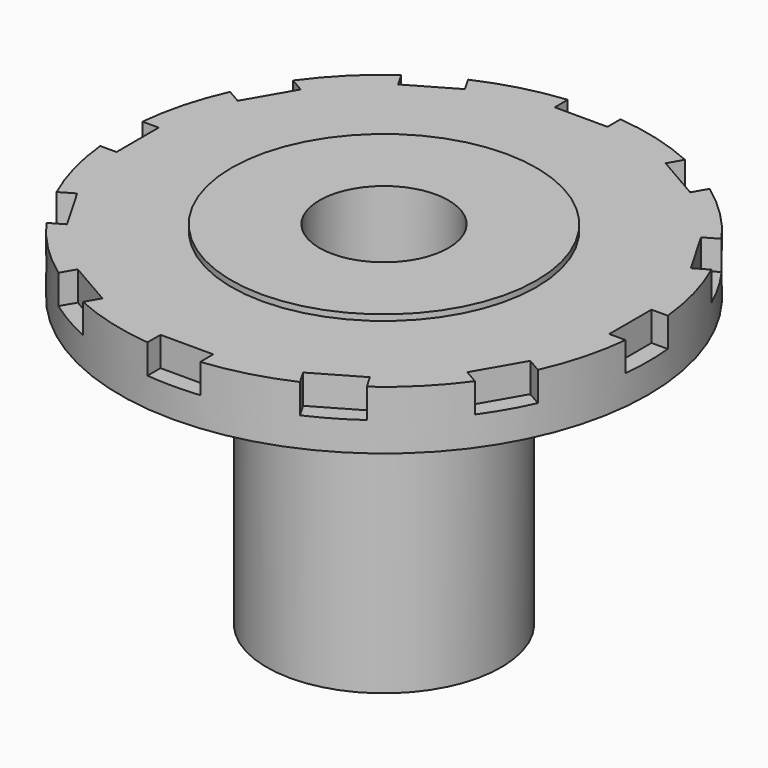
from build123d import *

# Parameters (mm, degrees)
SKETCH001_W        = 0.9
SKETCH001_H        = 0.3
POCKET_DEPTH       = 0.5
POLARPATTERN_COUNT = 12


with BuildPart() as part:
    # Sketch → Revolution (revolve)
    with BuildSketch(Plane.YZ):
        Polygon((-0.8, -6), (-2, -6), (-2, -1.1), (-4.5, -1.1), (-4.5, -0.1), (-2.6, -0.1), (-2.6, 0), (-1.1, 0), (-1.1, -3.5), (-0.8, -3.5), align=None)
    revolve(axis=Axis((0, 0, 0), (0, 0, 1)))

    # Sketch001 (on Face5 of Revolution) → Pocket (cut)
    with BuildSketch(Plane(origin=(0, 0, -0.1), x_dir=(0, -1, 0), z_dir=(0, 0, 1))):
        with Locations((0, 4.35)):
            Rectangle(SKETCH001_W, SKETCH001_H)
    pocket = extrude(amount=-POCKET_DEPTH, mode=Mode.SUBTRACT)

    # PolarPattern: Pocket ×12 about axis
    polarpattern_axis = Axis((0, 0, -0.1), (0, 0, 1))
    for i in range(1, POLARPATTERN_COUNT):
        add(pocket.rotate(polarpattern_axis, i * 360 / POLARPATTERN_COUNT), mode=Mode.SUBTRACT)


solid = part.part
